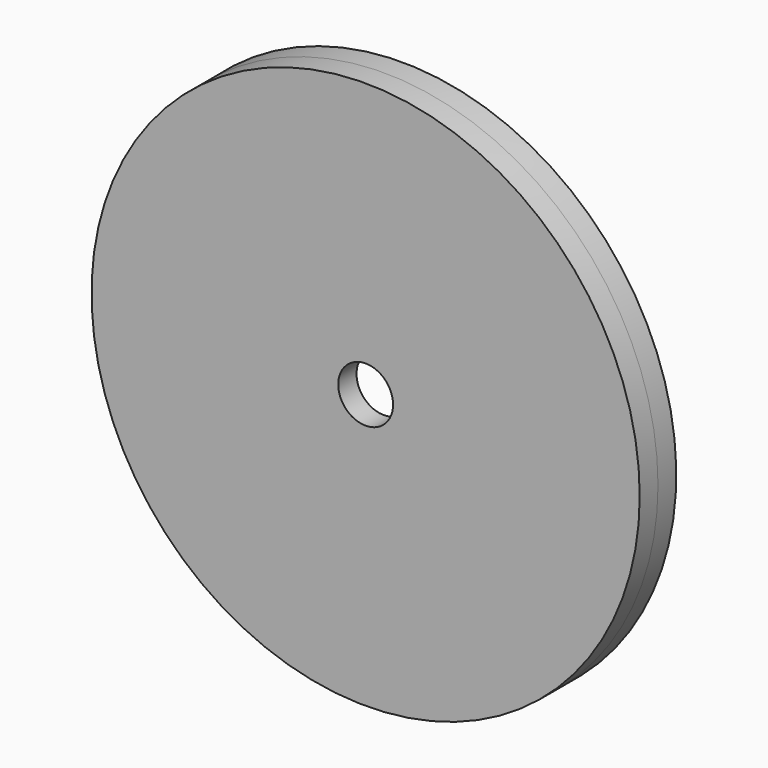
from build123d import *

# Parameters (mm, degrees)
SKETCH_R     = 60
SKETCH_R_2   = 6
PAD_DEPTH    = 5
PAD001_DEPTH = 5


with BuildPart() as part:
    # Sketch → Pad (new body)
    with BuildSketch(Plane.XZ):
        Circle(SKETCH_R)
        Circle(SKETCH_R_2, mode=Mode.SUBTRACT)
    extrude(amount=PAD_DEPTH)

    # Sketch001 → Pad001 (new body)
    with BuildSketch(Plane.XZ):
        with BuildLine():
            ThreePointArc((10.908712, -59), (0, 60), (-10.908712, -59))
            Line((-10.908712, -19.994713), (-10.908712, -59))
            Line((-16.031858, -19.994713), (-10.908712, -19.994713))
            ThreePointArc((-20, -16.079947), (-18.790704, -18.822669), (-16.031858, -19.994713))
            Line((-20, -16.079947), (-20, 20.005287))
            Line((-20, 20.005287), (20, 20.005287))
            Line((20, 20.005287), (20, -19.994713))
            Line((20, -19.994713), (10.908712, -19.994713))
            Line((10.908712, -19.994713), (10.908712, -59))
        make_face()
    extrude(amount=-PAD001_DEPTH)


solid = part.part
